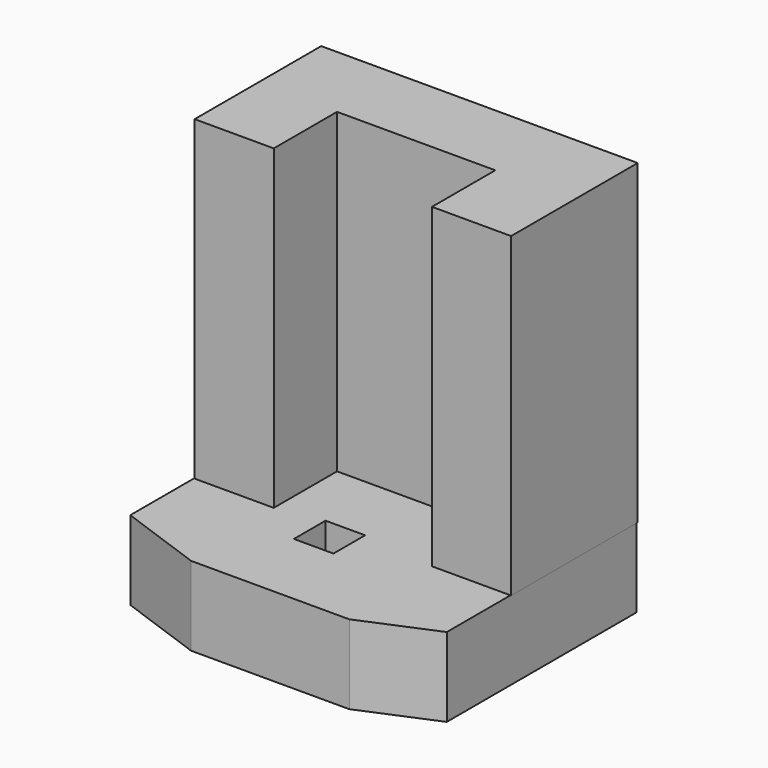
from build123d import *

# Parameters (mm, degrees)
F1_DEPTH = 101.6
F4_DEPTH = 25.4
F5_W     = 12.7
F5_H     = 12.7
F6_DEPTH = 25.4
F8_W     = 12.7
F8_H     = 12.7
F9_DEPTH = 25.4


with BuildPart() as f1:
    # F0 (on Top) → F1 (new body)
    with BuildSketch(Plane.XY):
        Polygon((46.477904, 52.172422), (-55.122096, 52.172422), (-55.122096, 1.372422), (-29.722096, 1.372422), (-29.722096, 26.772422), (21.077904, 26.772422), (21.077904, 1.372422), (46.477904, 1.372422), align=None)
    extrude(amount=-F1_DEPTH)


with BuildPart() as f1_1:
    # F2: moved
    add(f1.part.moved(Location((0, 0, 324.358))))


with BuildPart() as f4:
    # F3 (on Top) → F4 (new body)
    with BuildSketch(Plane.XY):
        Polygon((74.205248, 8.842153), (-27.394752, 8.842153), (-27.394752, -67.357847), (0, -77.224679), (50.8, -77.224679), (74.205248, -67.357847), align=None)
    extrude(amount=F4_DEPTH)

    # F5 (on face) → F6 (join)
    with BuildSketch(Plane.XY.offset(25.4)):
        with Locations((31.75, -58.174679)):
            Rectangle(F5_W, F5_H)
    extrude(amount=-F6_DEPTH)

    # F8 (on face) → F9 (cut)
    with BuildSketch(Plane.XY.offset(25.4)):
        with Locations((19.05, -45.474679)):
            Rectangle(F8_W, F8_H)
    extrude(amount=-F9_DEPTH, mode=Mode.SUBTRACT)


with BuildPart() as f1_2:
    # F7: moved
    add(f1_1.part.moved(Location((27.94, -43.18, -197.358))))


solid = Compound([f4.part, f1_2.part])
